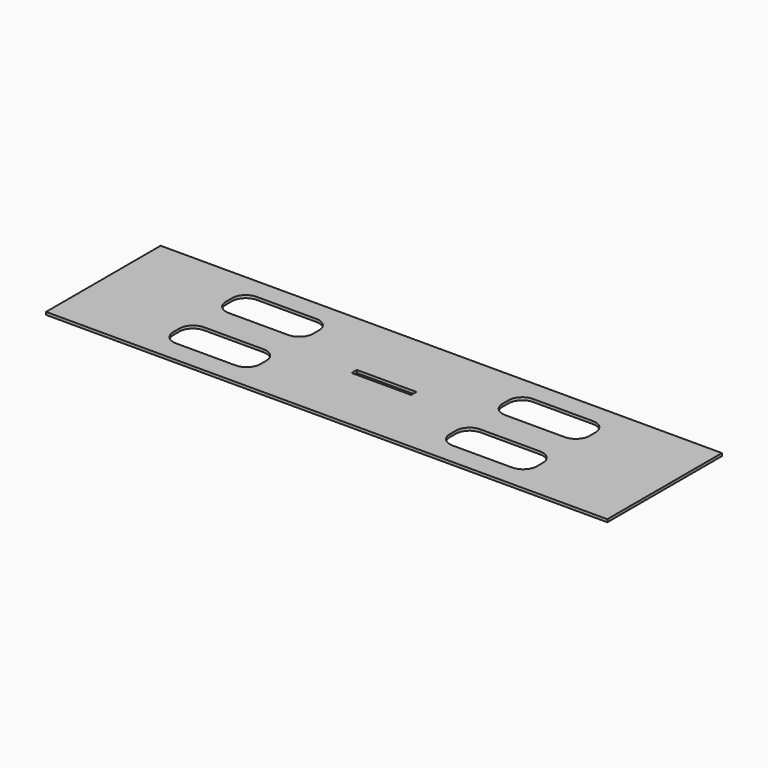
from build123d import *

# Parameters (mm, degrees)
SKETCH_W   = 2038
SKETCH_H   = 520
SKETCH_W_2 = 216
SKETCH_H_2 = 24
PAD_DEPTH  = 10


with BuildPart() as part:
    # Sketch → Pad (new body)
    with BuildSketch(Plane.XY):
        with Locations((1019, 260)):
            Rectangle(SKETCH_W, SKETCH_H)
        with BuildLine():
            Line((359, 395), (359, 368))
            ThreePointArc((359, 368), (373.644661, 332.644661), (409, 318))
            Line((409, 318), (625, 318))
            ThreePointArc((625, 318), (660.355339, 332.644661), (675, 368))
            Line((675, 368), (675, 395))
            ThreePointArc((675, 395), (660.355339, 430.355339), (625, 445))
            Line((625, 445), (409, 445))
            ThreePointArc((409, 445), (373.644661, 430.355339), (359, 395))
        make_face(mode=Mode.SUBTRACT)
        with BuildLine():
            Line((1363, 395), (1363, 368))
            ThreePointArc((1363, 368), (1377.644661, 332.644661), (1413, 318))
            Line((1413, 318), (1629, 318))
            ThreePointArc((1629, 318), (1664.355339, 332.644661), (1679, 368))
            Line((1679, 368), (1679, 395))
            ThreePointArc((1679, 395), (1664.355339, 430.355339), (1629, 445))
            Line((1629, 445), (1413, 445))
            ThreePointArc((1413, 445), (1377.644661, 430.355339), (1363, 395))
        make_face(mode=Mode.SUBTRACT)
        with BuildLine():
            Line((359, 156.0146), (359, 129.0146))
            ThreePointArc((359, 129.0146), (373.644661, 93.659261), (409, 79.0146))
            Line((409, 79.0146), (625, 79.0146))
            ThreePointArc((625, 79.0146), (660.355339, 93.659261), (675, 129.0146))
            Line((675, 129.0146), (675, 156.0146))
            ThreePointArc((675, 156.0146), (660.355339, 191.369939), (625, 206.0146))
            Line((625, 206.0146), (409, 206.0146))
            ThreePointArc((409, 206.0146), (373.644661, 191.369939), (359, 156.0146))
        make_face(mode=Mode.SUBTRACT)
        with BuildLine():
            Line((1363, 156.0146), (1363, 129.0146))
            ThreePointArc((1363, 129.0146), (1377.644661, 93.659261), (1413, 79.0146))
            Line((1413, 79.0146), (1629, 79.0146))
            ThreePointArc((1629, 79.0146), (1664.355339, 93.659261), (1679, 129.0146))
            Line((1679, 129.0146), (1679, 156.0146))
            ThreePointArc((1679, 156.0146), (1664.355339, 191.369939), (1629, 206.0146))
            Line((1629, 206.0146), (1413, 206.0146))
            ThreePointArc((1413, 206.0146), (1377.644661, 191.369939), (1363, 156.0146))
        make_face(mode=Mode.SUBTRACT)
        with Locations((1019, 260)):
            Rectangle(SKETCH_W_2, SKETCH_H_2, mode=Mode.SUBTRACT)
    extrude(amount=PAD_DEPTH)


solid = part.part
